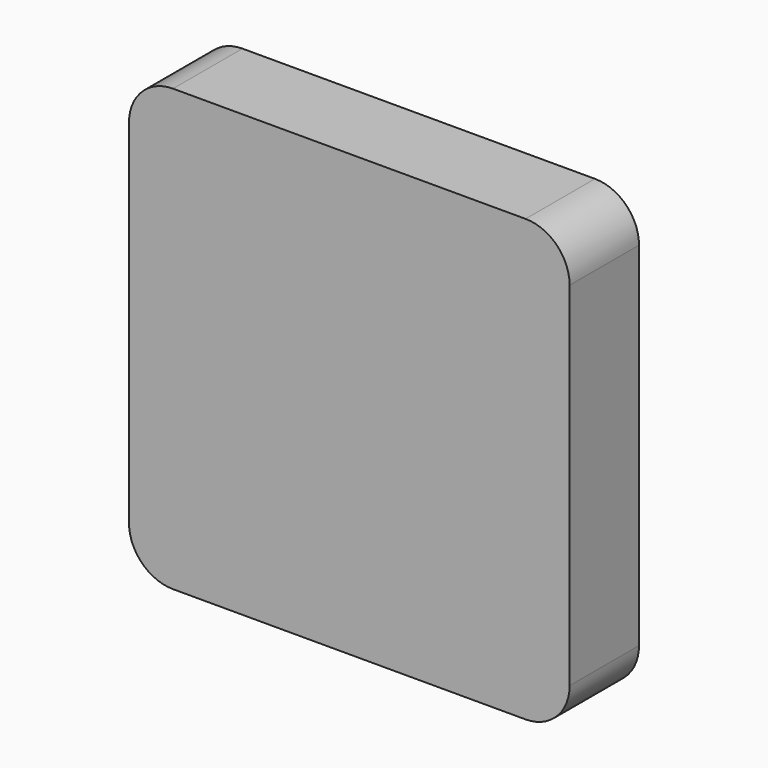
from build123d import *

# Parameters (mm, degrees)
F0_W          = 50.8
F0_H          = 50.8
F1_DEPTH      = 5
F1_DEPTH_BACK = 5
F2_R          = 5.08


with BuildPart() as f1:
    # F0 (on Front) → F1 (new body, two sides)
    with BuildSketch(Plane.XZ) as f1_sk:
        Rectangle(F0_W, F0_H)
    extrude(amount=F1_DEPTH)
    extrude(f1_sk.sketch, amount=-F1_DEPTH_BACK)

    # F2
    f2_edges = [f1.edges().sort_by_distance(p)[0] for p in [
        (25.4, 0, 25.4),
        (-25.4, 0, 25.4),
        (25.4, 0, -25.4),
        (-25.4, 0, -25.4),
    ]]
    fillet(f2_edges, radius=F2_R)


solid = f1.part
